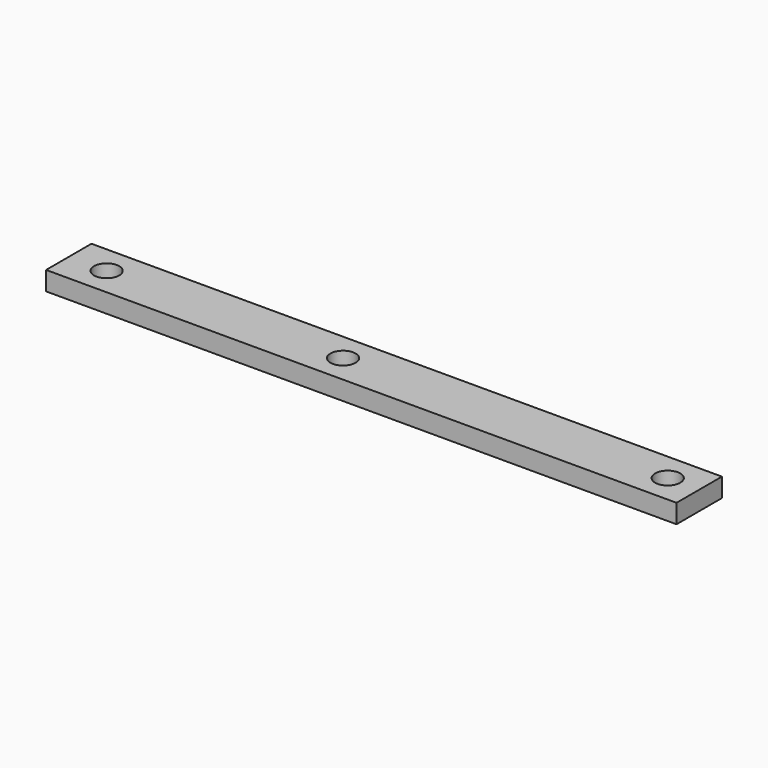
from build123d import *

# Parameters (mm, degrees)
F1_W     = 200
F1_H     = 18
F1_R     = 4
F2_DEPTH = 6


with BuildPart() as f2:
    # F1 (on face) → F2 (new body)
    with BuildSketch(Plane.XY):
        with Locations((100, 9)):
            Rectangle(F1_W, F1_H)
        with Locations((12, 9)):
            Circle(F1_R, mode=Mode.SUBTRACT)
        with Locations((87, 9)):
            Circle(F1_R, mode=Mode.SUBTRACT)
        with Locations((190, 9)):
            Circle(F1_R, mode=Mode.SUBTRACT)
    extrude(amount=F2_DEPTH)


solid = f2.part
